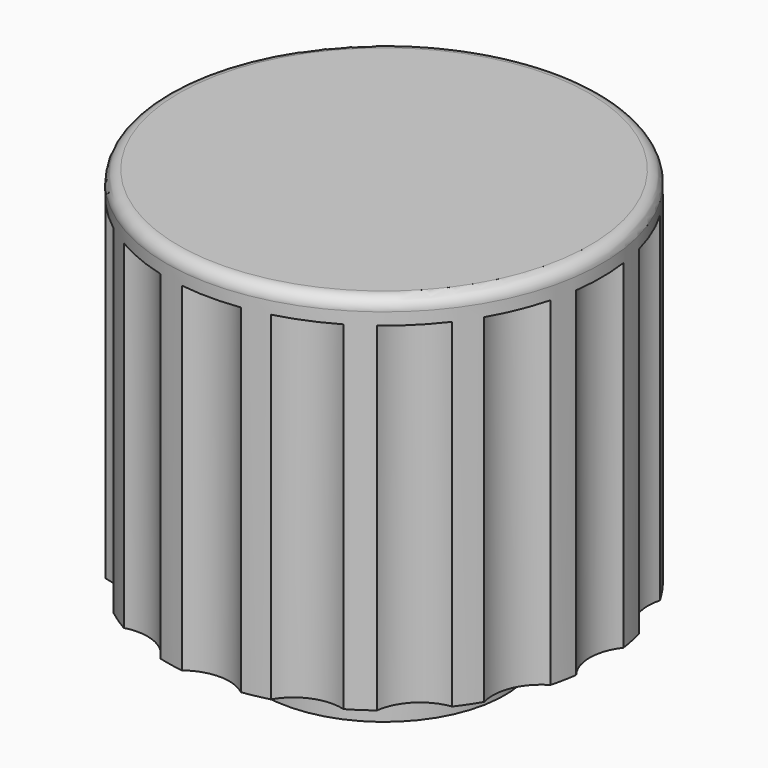
from build123d import *

# Parameters (mm, degrees)
F2_R      = 3.55
F3_DEPTH  = 16.5
F5_DEPTH  = 9
F6_R      = 0.5
F7_R      = 1.2
F8_DEPTH  = 10
F9_R      = 2
F10_DEPTH = 14


with BuildPart() as f1:
    # F0 (on Front) → F1 (revolve)
    with BuildSketch(Plane.XZ):
        Polygon((-5, 0), (0, 0), (0, 17.5), (-9, 17.5), (-9, 2.5), (-5, 2.5), align=None)
    revolve(axis=Axis((0, 0, -3.667768), (0, 0, -1)))

    # F2 (on face) → F3 (cut)
    with BuildSketch(Plane(origin=(0, 0, 0), x_dir=(1, 0, 0), z_dir=(0, 0, -1))):
        Circle(F2_R)
    extrude(amount=-F3_DEPTH, mode=Mode.SUBTRACT)

    # F4 (on face) → F5 (join)
    with BuildSketch(Plane(origin=(0, 0, 16.5), x_dir=(1, 0, 0), z_dir=(0, 0, -1))):
        with BuildLine():
            Line((3.207453, -1.521429), (-3.207453, -1.521429))
            ThreePointArc((-3.207453, -1.521429), (0, -3.55), (3.207453, -1.521429))
        make_face()
    extrude(amount=F5_DEPTH)

    # F6
    f6_edges = [f1.edges().sort_by_distance(p)[0] for p in [
        (9, 0, 17.5),
    ]]
    fillet(f6_edges, radius=F6_R)

    # F7 (on face) → F8 (cut)
    with BuildSketch(Plane.XZ.offset(-1.521429)):
        with Locations((0, 10.5)):
            Circle(F7_R)
    extrude(amount=-F8_DEPTH, mode=Mode.SUBTRACT)

    # F9 (on face) → F10 (cut)
    with BuildSketch(Plane(origin=(0, 0, 2.5), x_dir=(1, 0, 0), z_dir=(0, 0, -1))):
        with Locations((-10.5, 0)):
            Circle(F9_R)
        with Locations((-9.700735, -4.018176)):
            Circle(F9_R)
        with Locations((-7.424621, -7.424621)):
            Circle(F9_R)
        with Locations((-4.018176, -9.700735)):
            Circle(F9_R)
        with Locations((0, -10.5)):
            Circle(F9_R)
        with Locations((4.018176, -9.700735)):
            Circle(F9_R)
        with Locations((7.424621, -7.424621)):
            Circle(F9_R)
        with Locations((9.700735, -4.018176)):
            Circle(F9_R)
        with Locations((10.5, 0)):
            Circle(F9_R)
        with Locations((9.700735, 4.018176)):
            Circle(F9_R)
        with Locations((7.424621, 7.424621)):
            Circle(F9_R)
        with Locations((4.018176, 9.700735)):
            Circle(F9_R)
        with Locations((0, 10.5)):
            Circle(F9_R)
        with Locations((-4.018176, 9.700735)):
            Circle(F9_R)
        with Locations((-7.424621, 7.424621)):
            Circle(F9_R)
        with Locations((-9.700735, 4.018176)):
            Circle(F9_R)
    extrude(amount=-F10_DEPTH, mode=Mode.SUBTRACT)


solid = f1.part
